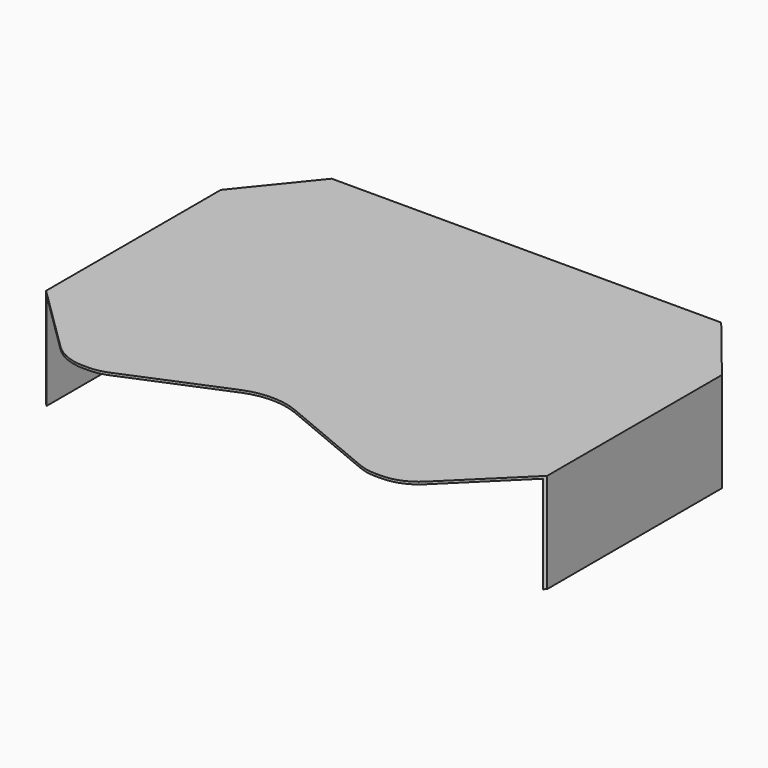
from build123d import *

# Parameters (mm, degrees)
F1_DEPTH = 4.2
F2_W     = 20.9
F2_H     = 4.1
F3_DEPTH = 10
F5_DEPTH = 4.1


with BuildPart() as f1:
    # F0 (on Top) → F1 (new body)
    with BuildSketch(Plane.XY):
        with BuildLine():
            Line((0, 7.95), (-8.199971, 7.95))
            Line((-8.199971, 7.95), (-10.55, 5.05))
            Line((-10.55, 5.05), (-10.55, -4.15))
            Line((-10.55, -4.15), (-7.678119, -6.975643))
            ThreePointArc((-7.678119, -6.975643), (-7.033292, -7.400849), (-6.275429, -7.55))
            Line((-6.275429, -7.55), (-6.046804, -7.55))
            ThreePointArc((-6.046804, -7.55), (-5.653998, -7.511047), (-5.276493, -7.395704))
            Line((-5.276493, -7.395704), (-1.155466, -5.675779))
            ThreePointArc((-1.155466, -5.675779), (0, -5.444335), (1.155466, -5.675779))
            Line((1.155466, -5.675779), (5.276493, -7.395704))
            ThreePointArc((5.276493, -7.395704), (5.653998, -7.511047), (6.046804, -7.55))
            Line((6.046804, -7.55), (6.275429, -7.55))
            ThreePointArc((6.275429, -7.55), (7.033292, -7.400849), (7.678119, -6.975643))
            Line((7.678119, -6.975643), (10.55, -4.15))
            Line((10.55, -4.15), (10.55, 5.05))
            Line((10.55, 5.05), (8.199971, 7.95))
            Line((8.199971, 7.95), (0, 7.95))
        make_face()
    extrude(amount=F1_DEPTH)

    # F2 (on face) → F3 (cut)
    with BuildSketch(Plane.XZ.offset(7.55)):
        with Locations((0, 2.05)):
            Rectangle(F2_W, F2_H)
    extrude(amount=-F3_DEPTH, mode=Mode.SUBTRACT)

    # F4 (on face) → F5 (cut)
    with BuildSketch(Plane(origin=(0, 0, 0), x_dir=(1, 0, 0), z_dir=(0, 0, -1))):
        Polygon((10.45, -2.45), (-10.45, -2.45), (-10.45, -5.05), (-7.217863, -9.038545), (7.210609, -9.047497), (10.45, -5.05), align=None)
    extrude(amount=-F5_DEPTH, mode=Mode.SUBTRACT)


solid = f1.part
